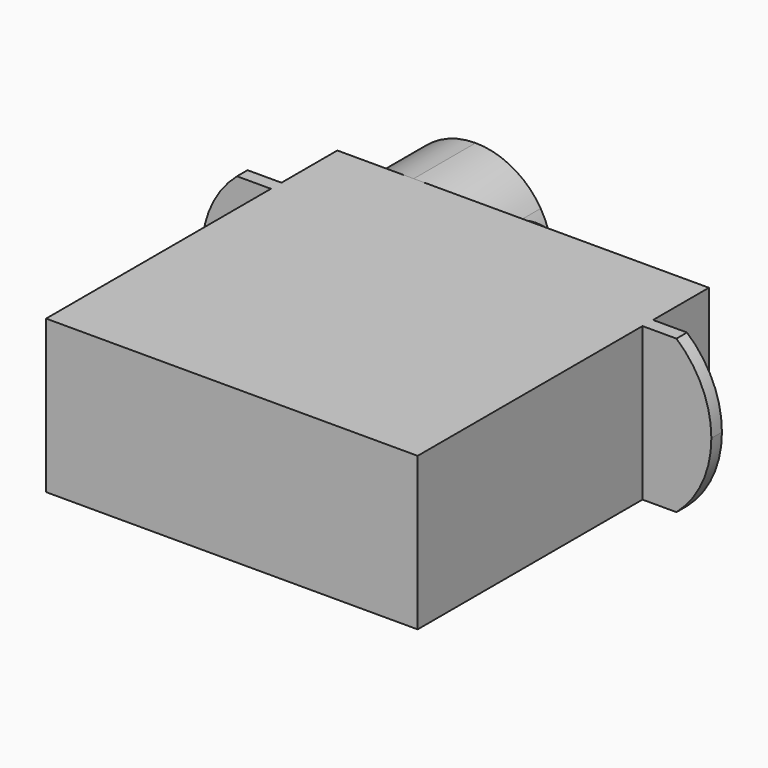
from build123d import *

# Parameters (mm, degrees)
F1_DEPTH = 8.1
F3_DEPTH = 0.7
F5_DEPTH = 4.1
F6_DEPTH = 2.7


with BuildPart() as f1:
    # F0 (on Top) → F1 (new body)
    with BuildSketch(Plane.XY):
        Polygon((-9.85, -9.65), (9.85, -9.65), (9.85, 5.25), (13.5, 5.25), (13.5, 5.95), (9.85, 5.95), (9.85, 9.65), (-9.85, 9.65), (-9.85, 5.95), (-13.5, 5.95), (-13.5, 5.25), (-9.85, 5.25), align=None)
    extrude(amount=F1_DEPTH)

    # F2 (on face) → F3 (cut, through all)
    with BuildSketch(Plane(origin=(0, 5.95, 0), x_dir=(-1, 0, 0), z_dir=(0, 1, 0))):
        with BuildLine():
            ThreePointArc((-11.65, 0), (-13.015604, 1.823736), (-13.5, 4.05))
            Line((-13.5, 4.05), (-13.5, 0))
            Line((-13.5, 0), (-11.65, 0))
        make_face()
        with BuildLine():
            ThreePointArc((-13.5, 4.05), (-13.015604, 6.276264), (-11.65, 8.1))
            Line((-11.65, 8.1), (-13.5, 8.1))
            Line((-13.5, 8.1), (-13.5, 4.05))
        make_face()
        with BuildLine():
            Line((13.5, 8.1), (11.65, 8.1))
            ThreePointArc((11.65, 8.1), (13.015604, 6.276264), (13.5, 4.05))
            Line((13.5, 4.05), (13.5, 8.1))
        make_face()
        with BuildLine():
            Line((13.5, 0), (13.5, 4.05))
            ThreePointArc((13.5, 4.05), (13.015604, 1.823736), (11.65, 0))
            Line((11.65, 0), (13.5, 0))
        make_face()
    extrude(amount=-F3_DEPTH, mode=Mode.SUBTRACT)

    # F4 (on face) → F5 (join)
    with BuildSketch(Plane(origin=(0, 9.65, 0), x_dir=(-1, 0, 0), z_dir=(0, 1, 0))):
        with BuildLine():
            ThreePointArc((5.8, 8.1), (3.82183, 7.584027), (2.347701, 6.167577))
            ThreePointArc((2.347701, 6.167577), (1.75, 4.05), (2.347701, 1.932423))
            ThreePointArc((2.347701, 1.932423), (3.82183, 0.515973), (5.8, 0))
            ThreePointArc((5.8, 0), (8.663782, 1.186218), (9.85, 4.05))
            ThreePointArc((9.85, 4.05), (8.663782, 6.913782), (5.8, 8.1))
        make_face()
    extrude(amount=F5_DEPTH)

    # F4 (on face) → F6 (join)
    with BuildSketch(Plane(origin=(0, 9.65, 0), x_dir=(-1, 0, 0), z_dir=(0, 1, 0))):
        with BuildLine():
            ThreePointArc((2.347701, 1.932423), (1.75, 4.05), (2.347701, 6.167577))
            ThreePointArc((2.347701, 6.167577), (-0.85, 4.05), (2.347701, 1.932423))
        make_face()
    extrude(amount=F6_DEPTH)


solid = f1.part
